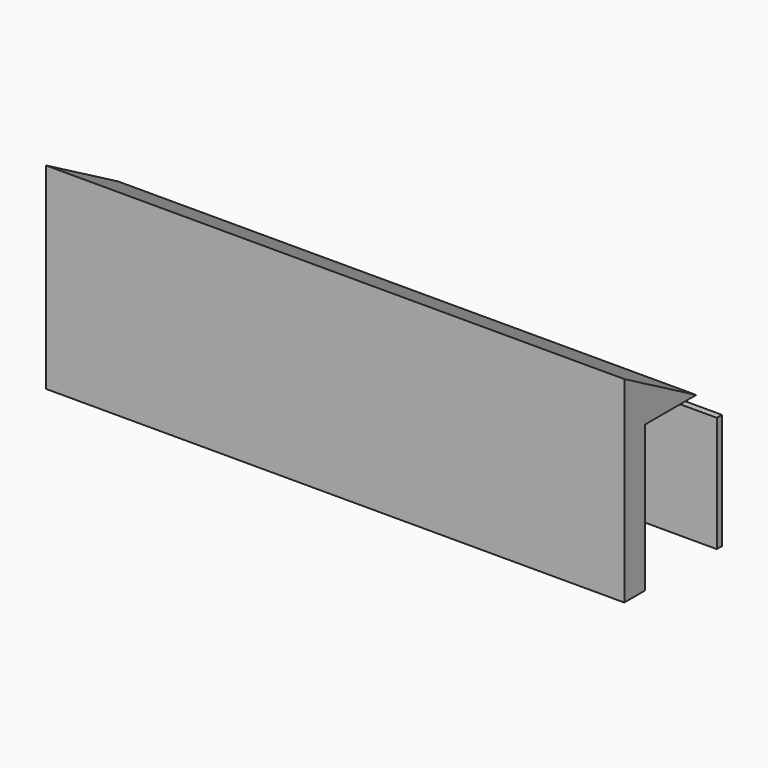
from build123d import *

# Parameters (mm, degrees)
F1_DEPTH  = 2500
F0_W      = 9000
F0_H      = 100
F2_DEPTH  = 1800
F3_W      = 1000
F3_H      = 100
F4_DEPTH  = 100
F5_W      = 1000
F5_H      = 700
F5_W_2    = 800
F5_H_2    = 1800
F6_DEPTH  = 100
F7_W      = 1800
F7_H      = 100
F8_DEPTH  = 100
F10_DEPTH = 9000


with BuildPart() as f1:
    # F0 (on Top) → F1 (new body)
    with BuildSketch(Plane.XY):
        Polygon((0, 1000), (0, 0), (9000, 0), (9000, 400), (3000, 400), (3000, 1000), align=None)
    extrude(amount=F1_DEPTH)

    # F3 (on face) → F4 (join)
    with BuildSketch(Plane(origin=(0, 1000, 0), x_dir=(-1, 0, 0), z_dir=(0, 1, 0))):
        with Locations((-900, 1050)):
            Rectangle(F3_W, F3_H)
    extrude(amount=F4_DEPTH)

    # F5 (on face) → F6 (cut)
    with BuildSketch(Plane(origin=(0, 1000, 0), x_dir=(-1, 0, 0), z_dir=(0, 1, 0))):
        with Locations((-900, 1450)):
            Rectangle(F5_W, F5_H)
        with Locations((-2050, 900)):
            Rectangle(F5_W_2, F5_H_2)
    extrude(amount=-F6_DEPTH, mode=Mode.SUBTRACT)

    # F7 (on face) → F8 (join)
    with BuildSketch(Plane(origin=(0, 400, 0), x_dir=(-1, 0, 0), z_dir=(0, 1, 0))):
        with Locations((-4300, 1050)):
            Rectangle(F7_W, F7_H)
        with Locations((-7300, 1050)):
            Rectangle(F7_W, F7_H)
    extrude(amount=F8_DEPTH)

    # F9 (on face) → F10 (join, through all)
    with BuildSketch(Plane.YZ.offset(9000)):
        Polygon((400, 2500), (400, 2275), (1400, 2275), (0, 3062.5), (0, 2500), align=None)
    extrude(amount=-F10_DEPTH)


with BuildPart() as f2:
    # F0 (on Top) → F2 (new body)
    with BuildSketch(Plane.XY):
        with Locations((4500, 1850)):
            Rectangle(F0_W, F0_H)
    extrude(amount=F2_DEPTH)


solid = Compound([f1.part, f2.part])
